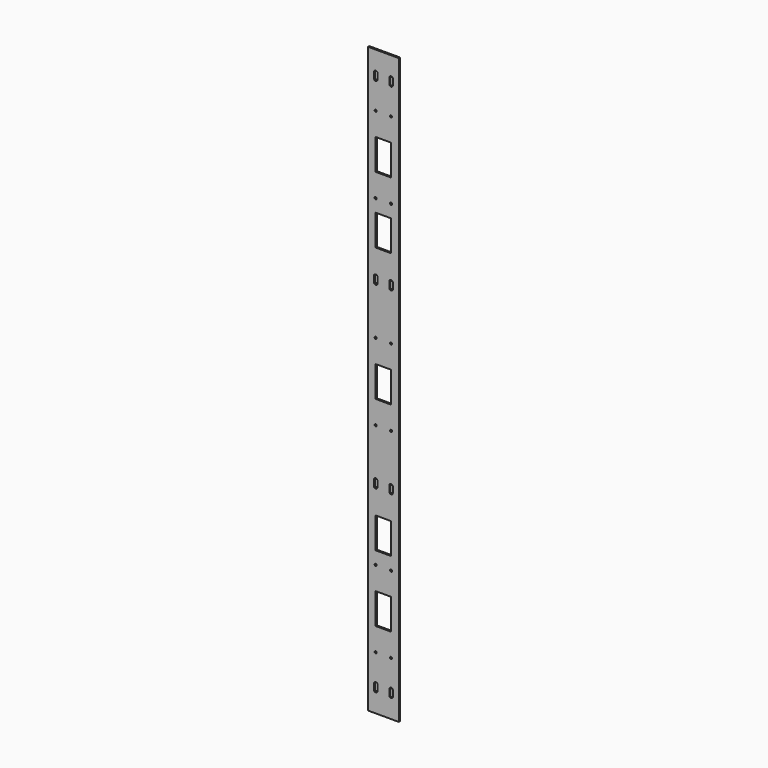
from build123d import *

# Parameters (mm, degrees)
F0_W     = 60
F0_H     = 1140
F1_DEPTH = 3
F2_R     = 2.05
F2_W     = 30
F2_H     = 60
F3_DEPTH = 25


with BuildPart() as f1:
    # F0 (on Front) → F1 (new body)
    with BuildSketch(Plane.XZ):
        Rectangle(F0_W, F0_H)
        with BuildLine():
            Line((-11.5, -519.5), (-11.5, -530.5))
            ThreePointArc((-11.5, -530.5), (-15, -534), (-18.5, -530.5))
            Line((-18.5, -530.5), (-18.5, -519.5))
            ThreePointArc((-18.5, -519.5), (-15, -516), (-11.5, -519.5))
        make_face(mode=Mode.SUBTRACT)
        with BuildLine():
            ThreePointArc((-18.5, -169.5), (-15, -166), (-11.5, -169.5))
            Line((-11.5, -169.5), (-11.5, -180.5))
            ThreePointArc((-11.5, -180.5), (-15, -184), (-18.5, -180.5))
            Line((-18.5, -180.5), (-18.5, -169.5))
        make_face(mode=Mode.SUBTRACT)
        with BuildLine():
            Line((18.5, -519.5), (18.5, -530.5))
            ThreePointArc((18.5, -530.5), (15, -534), (11.5, -530.5))
            Line((11.5, -530.5), (11.5, -519.5))
            ThreePointArc((11.5, -519.5), (15, -516), (18.5, -519.5))
        make_face(mode=Mode.SUBTRACT)
        with BuildLine():
            ThreePointArc((18.5, -180.5), (15, -184), (11.5, -180.5))
            Line((11.5, -180.5), (11.5, -169.5))
            ThreePointArc((11.5, -169.5), (15, -166), (18.5, -169.5))
            Line((18.5, -169.5), (18.5, -180.5))
        make_face(mode=Mode.SUBTRACT)
        with BuildLine():
            ThreePointArc((-18.5, 180.5), (-15, 184), (-11.5, 180.5))
            Line((-11.5, 180.5), (-11.5, 169.5))
            ThreePointArc((-11.5, 169.5), (-15, 166), (-18.5, 169.5))
            Line((-18.5, 169.5), (-18.5, 180.5))
        make_face(mode=Mode.SUBTRACT)
        with BuildLine():
            ThreePointArc((-18.5, 530.5), (-15, 534), (-11.5, 530.5))
            Line((-11.5, 530.5), (-11.5, 519.5))
            ThreePointArc((-11.5, 519.5), (-15, 516), (-18.5, 519.5))
            Line((-18.5, 519.5), (-18.5, 530.5))
        make_face(mode=Mode.SUBTRACT)
        with BuildLine():
            ThreePointArc((18.5, 169.5), (15, 166), (11.5, 169.5))
            Line((11.5, 169.5), (11.5, 180.5))
            ThreePointArc((11.5, 180.5), (15, 184), (18.5, 180.5))
            Line((18.5, 180.5), (18.5, 169.5))
        make_face(mode=Mode.SUBTRACT)
        with BuildLine():
            ThreePointArc((18.5, 519.5), (15, 516), (11.5, 519.5))
            Line((11.5, 519.5), (11.5, 530.5))
            ThreePointArc((11.5, 530.5), (15, 534), (18.5, 530.5))
            Line((18.5, 530.5), (18.5, 519.5))
        make_face(mode=Mode.SUBTRACT)
    extrude(amount=F1_DEPTH)

    # F2 (on face) → F3 (cut)
    with BuildSketch(Plane.XZ.offset(3)):
        with Locations((-15, -465)):
            Circle(F2_R)
        with Locations((15, -465)):
            Circle(F2_R)
        with Locations((-15, -315)):
            Circle(F2_R)
        with Locations((15, -315)):
            Circle(F2_R)
        with Locations((-15, -75)):
            Circle(F2_R)
        with Locations((15, -75)):
            Circle(F2_R)
        with Locations((-15, 75)):
            Circle(F2_R)
        with Locations((15, 75)):
            Circle(F2_R)
        with Locations((-15, 315)):
            Circle(F2_R)
        with Locations((15, 315)):
            Circle(F2_R)
        with Locations((-15, 465)):
            Circle(F2_R)
        with Locations((15, 465)):
            Circle(F2_R)
        with Locations((0, -390)):
            Rectangle(F2_W, F2_H)
        with Locations((0, -260)):
            Rectangle(F2_W, F2_H)
        with Locations((0, 390)):
            Rectangle(F2_W, F2_H)
        with Locations((0, 260)):
            Rectangle(F2_W, F2_H)
        Rectangle(F2_W, F2_H)
    extrude(amount=-F3_DEPTH, mode=Mode.SUBTRACT)


solid = f1.part
